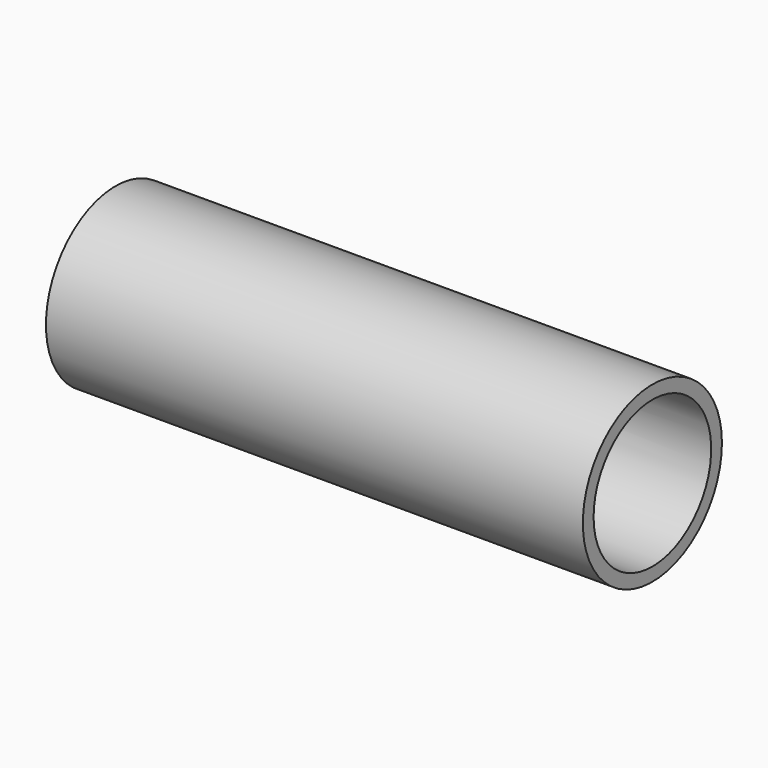
from build123d import *

# Parameters (mm, degrees)
F0_R     = 16.4465
F1_DEPTH = 101.6
F4_DEPTH = 101.601
F5_D     = 3.4544
F5_DEPTH = 16.4475
F6_D     = 3.4544
F6_DEPTH = 16.4475001


with BuildPart() as f1:
    # F0 (on Right) → F1 (new body)
    with BuildSketch(Plane.YZ):
        Circle(F0_R)
    extrude(amount=F1_DEPTH)

    # F2 (on face) → F4 (cut, through all)
    with BuildSketch(Plane.YZ.offset(101.6)):
        with BuildLine():
            ThreePointArc((13.9065, 0), (0, 13.9065), (-13.9065, 0))
            ThreePointArc((-13.9065, 0), (0, -13.9065), (13.9065, 0))
        make_face()
    extrude(amount=-F4_DEPTH, mode=Mode.SUBTRACT)

    # F5 (through all, one way)
    with BuildSketch(Plane.XZ):
        with Locations((71.1848556182, 0)):
            Circle(F5_D / 2)
    extrude(amount=-F5_DEPTH, mode=Mode.SUBTRACT)

    # F6 (through all, one way)
    with BuildSketch(Plane.XZ):
        with Locations((55.9448556182, 0)):
            Circle(F6_D / 2)
    extrude(amount=-F6_DEPTH, mode=Mode.SUBTRACT)


solid = f1.part
